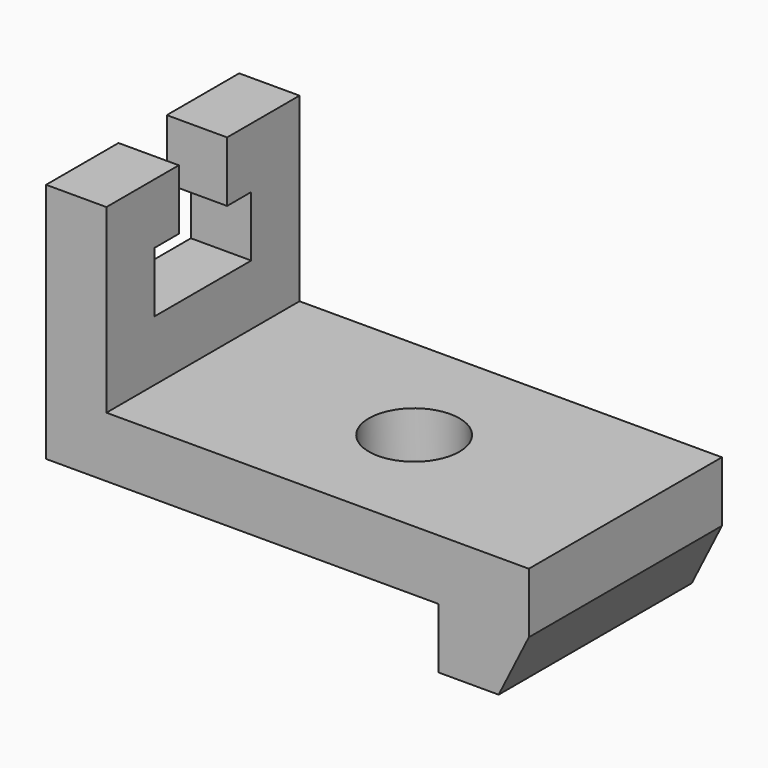
from build123d import *

# Parameters (mm, degrees)
F0_W      = 80
F0_H      = 40
F1_DEPTH  = 10
F2_W      = 10
F2_H      = 40
F3_DEPTH  = 30
F4_W      = 15
F4_H      = 40
F5_DEPTH  = 10
F7_DEPTH  = 40.001
F9_DEPTH  = 80.001
F10_R     = 7.5
F11_DEPTH = 20.001


with BuildPart() as f1:
    # F0 (on Top) → F1 (new body)
    with BuildSketch(Plane.XY):
        Rectangle(F0_W, F0_H)
    extrude(amount=F1_DEPTH)

    # F2 (on face) → F3 (join)
    with BuildSketch(Plane.XY.offset(10)):
        with Locations((-35, 0)):
            Rectangle(F2_W, F2_H)
    extrude(amount=F3_DEPTH)

    # F4 (on face) → F5 (join)
    with BuildSketch(Plane(origin=(0, 0, 0), x_dir=(1, 0, 0), z_dir=(0, 0, -1))):
        with Locations((32.5, 0)):
            Rectangle(F4_W, F4_H)
    extrude(amount=F5_DEPTH)

    # F6 (on face) → F7 (cut, through all)
    with BuildSketch(Plane.XZ.offset(20)):
        Polygon((40, 0), (35, -10), (40, -10), align=None)
    extrude(amount=-F7_DEPTH, mode=Mode.SUBTRACT)

    # F8 (on face) → F9 (cut, through all)
    with BuildSketch(Plane(origin=(-40, 0, 0), x_dir=(0, -1, 0), z_dir=(-1, 0, 0))):
        Polygon((5, 40), (-5, 40), (-5, 30), (-10, 30), (-10, 20), (10, 20), (10, 30), (5, 30), align=None)
    extrude(amount=-F9_DEPTH, mode=Mode.SUBTRACT)

    # F10 (on face) → F11 (cut, through all)
    with BuildSketch(Plane.XY.offset(10)):
        with Locations((5, 0)):
            Circle(F10_R)
    extrude(amount=-F11_DEPTH, mode=Mode.SUBTRACT)


solid = f1.part
